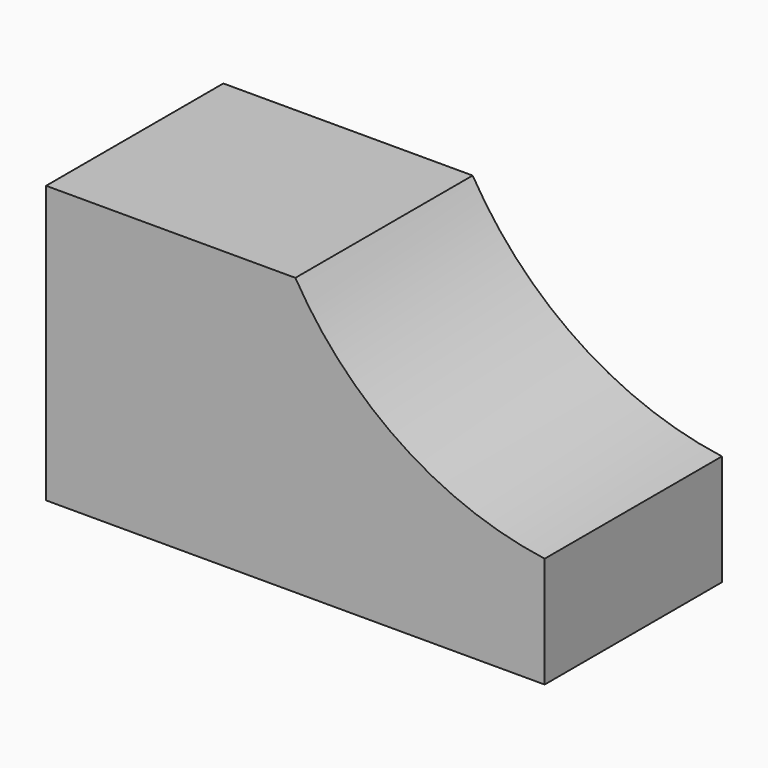
from build123d import *

# Parameters (mm, degrees)
F0_W     = 57.15
F0_H     = 31.75
F1_DEPTH = 25.4
F3_DEPTH = 25.4


with BuildPart() as f1:
    # F0 (on Front) → F1 (new body)
    with BuildSketch(Plane.XZ):
        with Locations((28.575, 15.875)):
            Rectangle(F0_W, F0_H)
    extrude(amount=F1_DEPTH)

    # F2 (on face) → F3 (cut)
    with BuildSketch(Plane.XZ.offset(25.4)):
        with BuildLine():
            Line((57.15, 31.75), (28.575, 31.75))
            ThreePointArc((28.575, 31.75), (40.678341, 18.948762), (57.15, 12.7))
            Line((57.15, 12.7), (57.15, 31.75))
        make_face()
    extrude(amount=-F3_DEPTH, mode=Mode.SUBTRACT)


solid = f1.part
